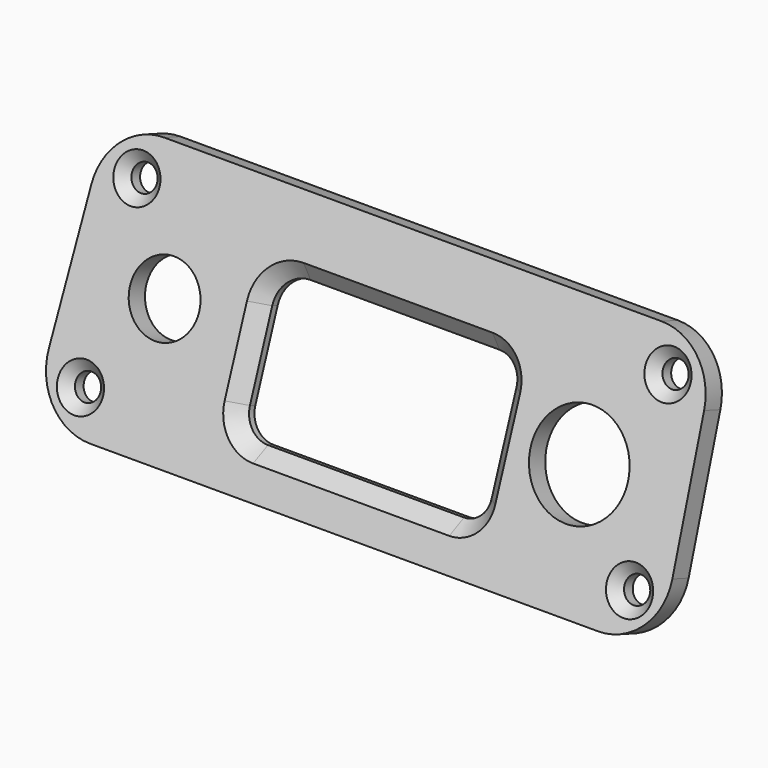
from build123d import *

# Parameters (mm, degrees)
SKETCH033_R     = 1.75
SKETCH033_R_2   = 4.796418
SKETCH033_R_3   = 6.720156
PAD001_DEPTH    = 3
CHAMFER001_SIZE = 2
CHAMFER002_SIZE = 1.4


with BuildPart() as part:
    # Sketch033 → Pad001 (new body)
    with BuildSketch(Plane(origin=(0, -38, 0), x_dir=(1, 0, 0), z_dir=(0, -0.939693, 0.34202))):
        with BuildLine():
            Line((-34.406356, 37.6), (34.406361, 37.6))
            ThreePointArc((42.400003, 29.918894), (39.949322, 35.368499), (34.406361, 37.6))
            Line((42.400003, 29.918894), (43.15, 11.118894))
            ThreePointArc((35.156359, 2.8), (40.924857, 5.257038), (43.15, 11.118894))
            Line((35.156359, 2.8), (-35.156359, 2.8))
            ThreePointArc((-43.15, 11.118896), (-40.924858, 5.257039), (-35.156359, 2.8))
            Line((-43.15, 11.118896), (-42.399997, 29.918896))
            ThreePointArc((-34.406356, 37.6), (-39.949317, 35.368499), (-42.399997, 29.918896))
        make_face()
        with Locations((-36.75, 32.3)):
            Circle(SKETCH033_R, mode=Mode.SUBTRACT)
        with Locations((36.75, 32.3)):
            Circle(SKETCH033_R, mode=Mode.SUBTRACT)
        with Locations((-38, 8.3)):
            Circle(SKETCH033_R, mode=Mode.SUBTRACT)
        with Locations((38, 8.3)):
            Circle(SKETCH033_R, mode=Mode.SUBTRACT)
        with Locations((-29.768274, 20.799871)):
            Circle(SKETCH033_R_2, mode=Mode.SUBTRACT)
        with Locations((27.980227, 19.489883)):
            Circle(SKETCH033_R_3, mode=Mode.SUBTRACT)
        with BuildLine():
            Line((-13.009558, 27.89562), (13.133726, 27.89562))
            ThreePointArc((16.384062, 24.645284), (15.43206, 26.943619), (13.133726, 27.89562))
            Line((16.384062, 24.645284), (16.384062, 12.013562))
            ThreePointArc((13.393686, 9.023187), (15.508201, 9.899048), (16.384062, 12.013562))
            Line((13.393686, 9.023187), (-13.746031, 9.023187))
            ThreePointArc((-17.177177, 12.454333), (-16.172218, 10.028147), (-13.746031, 9.023187))
            Line((-17.177177, 12.454333), (-17.177177, 23.728001))
            ThreePointArc((-13.009558, 27.89562), (-15.95651, 26.674953), (-17.177177, 23.728001))
        make_face(mode=Mode.SUBTRACT)
    extrude(amount=PAD001_DEPTH)

    # Chamfer001
    chamfer001_edges = [part.edges().sort_by_distance(p)[0] for p in [
        (0.062084, -31.278214, 27.239369),
    ]]
    chamfer(chamfer001_edges, length=CHAMFER001_SIZE)

    # Chamfer002
    chamfer002_edges = [part.edges().sort_by_distance(p)[0] for p in [
        (-38.5, -29.771827, 31.378132),
        (-39.75, -37.980311, 8.825509),
        (35, -29.771827, 31.378132),
        (36.25, -37.980311, 8.825509),
    ]]
    chamfer(chamfer002_edges, length=CHAMFER002_SIZE)


solid = part.part
